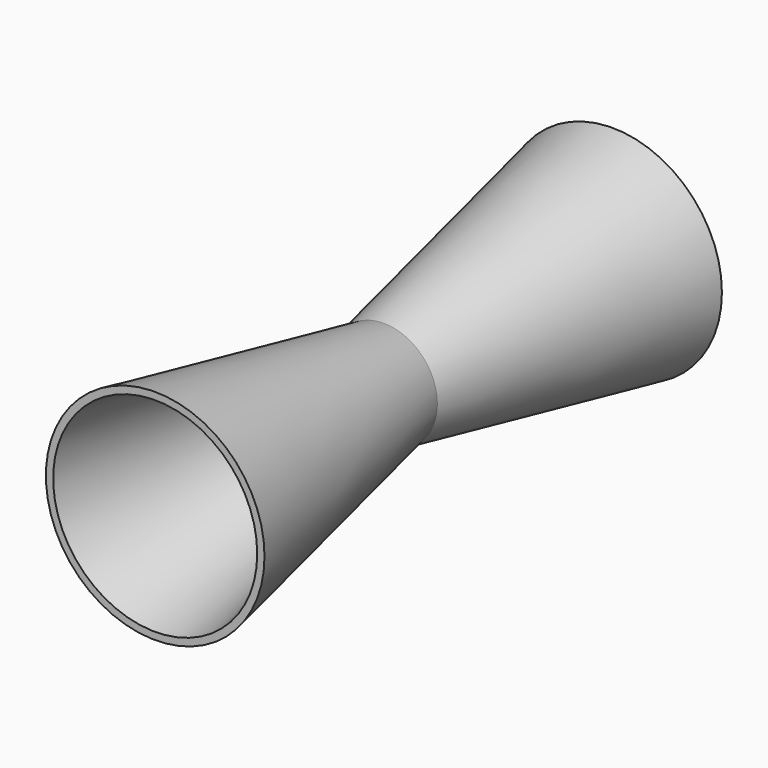
from build123d import *

# Parameters (mm, degrees)
F0_R      = 38.279248166
F2_R      = 18.7324901921
F5_R      = 38.2461043671
F3_FACE_R = 18.7324901921
F7_T      = -2.5


with BuildPart() as f3:
    # F0 (on Front) → F3 section 0
    with BuildSketch(Plane.XZ):
        Circle(F0_R)
    # F2 (on offset) → F3 section 1
    with BuildSketch(Plane.XZ.offset(100)):
        Circle(F2_R)
    loft()

    # F5 (on offset) → F6 section 0
    with BuildSketch(Plane.XZ.offset(200)):
        Circle(F5_R)
    # F3_face (on face) → F6 section 1
    with BuildSketch(Plane.XZ.offset(100)):
        Circle(F3_FACE_R)
    loft()

    # F7
    f7_openings = [f3.faces().sort_by_distance(p)[0] for p in [
        (0, -200, 0),
        (0, 0, 0),
    ]]
    offset(amount=F7_T, openings=f7_openings, kind=Kind.INTERSECTION)


solid = f3.part
